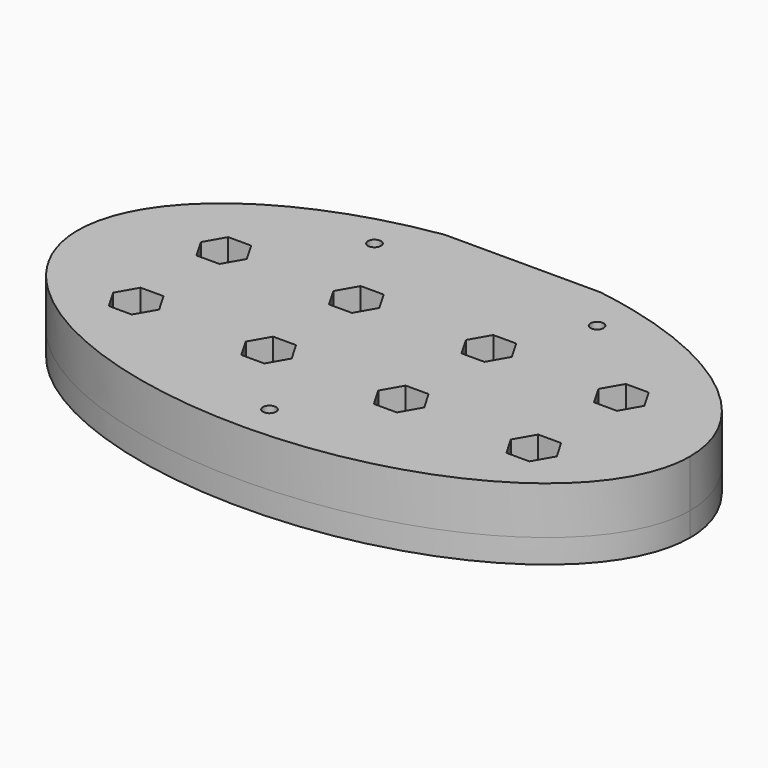
from build123d import *

# Parameters (mm, degrees)
PAD_DEPTH           = 6
POCKET_DEPTH        = 3
PAD001_DEPTH        = 3
SKETCH003_W         = 66
SKETCH003_H         = 2.77
POCKET001_DEPTH     = 3
SKETCH004_W         = 19.6
SKETCH004_H         = 1
POCKET002_DEPTH     = 9.001
SKETCH005_R         = 0.82
POCKET003_DEPTH     = 9.001
POCKET004_DEPTH     = 9.001
LINEARPATTERN_COUNT = 4
LINEARPATTERN_PITCH = 16.666667


with BuildPart() as part:
    # Sketch → Pad (new body)
    with BuildSketch(Plane.XY):
        with BuildLine():
            add(Edge.make_bspline(
                [(38.5, 0), (38.5, 38.971143), (-19.25, 19.485572), (-77, 0), (-19.25, -19.485572), (38.5, -38.971143), (38.5, 0)],
                knots=[0, 0, 0, 2.094395, 2.094395, 4.18879, 4.18879, 6.283185, 6.283185, 6.283185], degree=2, weights=[1, 0.5, 1, 0.5, 1, 0.5, 1]))
        make_face()
    extrude(amount=PAD_DEPTH)

    # Sketch001 (on Face2 of Pad) → Pocket (cut)
    with BuildSketch(Plane(origin=(0, 0, 0), x_dir=(1, 0, 0), z_dir=(0, 0, -1))):
        Polygon((9.55, -3.696801), (9.55, -21.796801), (-9.55, -21.796801), (-9.55, -3.696801), (-33, -3.696801), (-33, 6.303199), (33, 6.303199), (33, -3.696801), align=None)
    extrude(amount=-POCKET_DEPTH, mode=Mode.SUBTRACT)

    # Sketch002 (on Face2 of Pocket) → Pad001 (join)
    with BuildSketch(Plane(origin=(0, 0, 0), x_dir=(1, 0, 0), z_dir=(0, 0, -1))):
        with BuildLine():
            add(Edge.make_bspline(
                [(38.5, 0), (38.5, 38.971143), (-19.25, 19.485572), (-77, 0), (-19.25, -19.485572), (38.5, -38.971143), (38.5, 0)],
                knots=[0, 0, 0, 2.094395, 2.094395, 4.18879, 4.18879, 6.283185, 6.283185, 6.283185], degree=2, weights=[1, 0.5, 1, 0.5, 1, 0.5, 1]))
        make_face()
    extrude(amount=PAD001_DEPTH)

    # Sketch003 (on Face4 of Pad001) → Pocket001 (cut)
    with BuildSketch(Plane(origin=(0, 0, -3), x_dir=(1, 0, 0), z_dir=(0, 0, -1))):
        with Locations((0, 1.303199)):
            Rectangle(SKETCH003_W, SKETCH003_H)
    extrude(amount=-POCKET001_DEPTH, mode=Mode.SUBTRACT)

    # Sketch004 (on Face4 of Pocket001) → Pocket002 (cut, through all)
    with BuildSketch(Plane(origin=(0, 0, -3), x_dir=(1, 0, 0), z_dir=(0, 0, -1))):
        with Locations((0, -22.258868)):
            Rectangle(SKETCH004_W, SKETCH004_H)
    extrude(amount=-POCKET002_DEPTH, mode=Mode.SUBTRACT)

    # Sketch005 (on Face4 of Pocket002) → Pocket003 (cut, through all)
    with BuildSketch(Plane.XY.offset(6)):
        with Locations((-14, 16)):
            Circle(SKETCH005_R)
        with Locations((14, 16)):
            Circle(SKETCH005_R)
        with Locations((0, -18)):
            Circle(SKETCH005_R)
    extrude(amount=-POCKET003_DEPTH, mode=Mode.SUBTRACT)

    # Sketch006 (on Face7 of Pocket003) → Pocket004 (cut, through all)
    with BuildSketch(Plane(origin=(0, 0, -3), x_dir=(1, 0, 0), z_dir=(0, 0, -1))):
        Polygon((-21.726497, -5.581801), (-23.169873, -3.081801), (-26.056624, -3.081801), (-27.5, -5.581801), (-26.056624, -8.081801), (-23.169873, -8.081801), align=None)
        Polygon((-23.169873, 5.688199), (-21.726497, 8.188199), (-23.169873, 10.688199), (-26.056624, 10.688199), (-27.5, 8.188199), (-26.056624, 5.688199), align=None)
    pocket004 = extrude(amount=-POCKET004_DEPTH, mode=Mode.SUBTRACT)

    # LinearPattern: Pocket004 ×4
    with Locations(*[(i * LINEARPATTERN_PITCH, 0, 0) for i in range(1, LINEARPATTERN_COUNT)]):
        add(pocket004, mode=Mode.SUBTRACT)


solid = part.part
